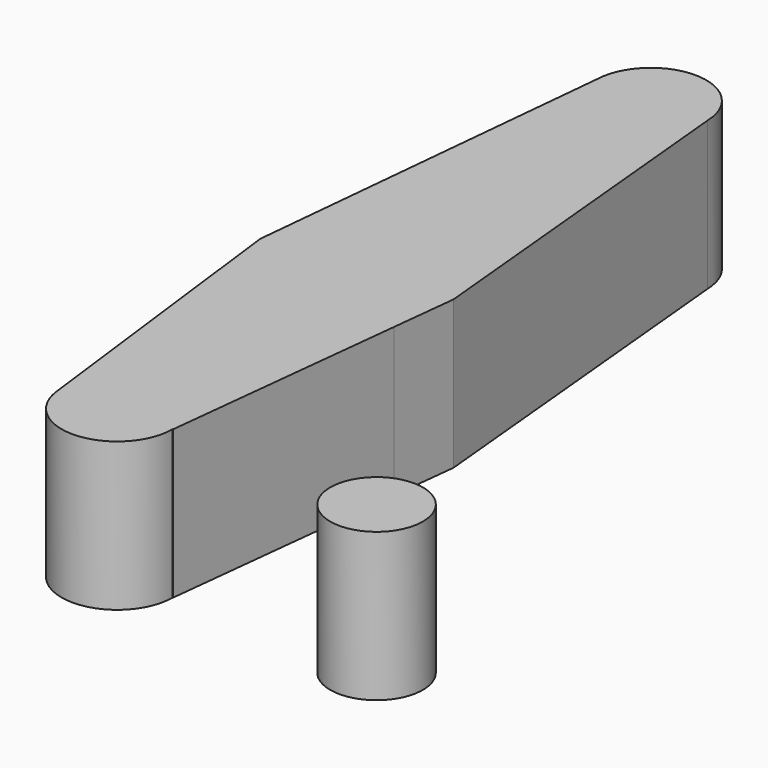
from build123d import *

# Parameters (mm, degrees)
F1_DEPTH = 25.4


with BuildPart() as f1:
    # F0 (on Top) → F1 (new body)
    with BuildSketch(Plane.XY):
        with BuildLine():
            ThreePointArc((9.525, 81.2639421549), (6.7351920908, 74.5287500641), (0, 71.7389421549))
            Line((0, 71.7389421549), (0, 31.6843353925))
            ThreePointArc((0, 31.6843353925), (9.7131531423, 28.3660181166), (15.3656670562, 19.7983078062))
            Line((15.3656670562, 19.7983078062), (9.5202281659, 81.565406365))
            ThreePointArc((9.5202281659, 81.565406365), (9.5238069667, 81.4146931419), (9.525, 81.2639421549))
        make_face()
        with BuildLine():
            Line((0, 31.6843353925), (0, 71.7389421549))
            ThreePointArc((0, 71.7389421549), (-6.8274747454, 74.6223148241), (-9.5213738308, 81.5267450733))
            Line((-9.5213738308, 81.5267450733), (-15.7995668357, 17.3550756048))
            ThreePointArc((-15.7995668357, 17.3550756048), (-10.6648253415, 27.568464843), (0, 31.6843353925))
        make_face()
        with BuildLine():
            Line((0, -23.5110578451), (0, -0.0656646075))
            ThreePointArc((0, -0.0656646075), (-9.1483416691, 2.8353818814), (-14.9530909628, 10.4782289728))
            Line((-14.9530909628, 10.4782289728), (-9.4536515863, -34.1997144463))
            ThreePointArc((-9.4536515863, -34.1997144463), (-7.1347548706, -26.7256776714), (0, -23.5110578451))
        make_face()
        with BuildLine():
            ThreePointArc((14.1387534307, 8.590521333), (8.2890576004, 2.2702383363), (0, -0.0656646075))
            Line((0, -0.0656646075), (0, -23.5110578451))
            ThreePointArc((0, -23.5110578451), (6.7351920908, -26.3008657543), (9.525, -33.0360578451))
            Line((9.525, -33.0360578451), (9.581902058, -33.0360578451))
            Line((9.581902058, -33.0360578451), (14.1387534307, 8.590521333))
        make_face()
        with BuildLine():
            Line((0, -33.0360578451), (0, -23.5110578451))
            ThreePointArc((0, -23.5110578451), (-7.1347548706, -26.7256776714), (-9.4536515863, -34.1997144463))
            ThreePointArc((-9.4536515863, -34.1997144463), (0.5829209384, -42.5432040089), (9.525, -33.0360578451))
            Line((9.525, -33.0360578451), (0, -33.0360578451))
        make_face()
        with BuildLine():
            ThreePointArc((9.525, -33.0360578451), (6.7351920908, -26.3008657543), (0, -23.5110578451))
            Line((0, -23.5110578451), (0, -33.0360578451))
            Line((0, -33.0360578451), (9.525, -33.0360578451))
        make_face()
        with BuildLine():
            ThreePointArc((-9.5213738308, 81.5267450733), (-6.8274747454, 74.6223148241), (0, 71.7389421549))
            ThreePointArc((0, 71.7389421549), (6.7351920908, 74.5287500641), (9.525, 81.2639421549))
            ThreePointArc((9.525, 81.2639421549), (9.5238069667, 81.4146931419), (9.5202281659, 81.565406365))
            ThreePointArc((9.5202281659, 81.565406365), (-0.0193391315, 90.7889225222), (-9.5213738308, 81.5267450733))
        make_face()
        with BuildLine():
            ThreePointArc((15.3656670562, 19.7983078062), (9.7131531423, 28.3660181166), (0, 31.6843353925))
            Line((0, 31.6843353925), (0, -0.0656646075))
            ThreePointArc((0, -0.0656646075), (8.2890576004, 2.2702383363), (14.1387534307, 8.590521333))
            Line((14.1387534307, 8.590521333), (15.3656670562, 19.7983078062))
        make_face()
        with BuildLine():
            Line((0, -0.0656646075), (0, 31.6843353925))
            ThreePointArc((0, 31.6843353925), (-10.6648253415, 27.568464843), (-15.7995668357, 17.3550756048))
            Line((-15.7995668357, 17.3550756048), (-14.9530909628, 10.4782289728))
            ThreePointArc((-14.9530909628, 10.4782289728), (-9.1483416691, 2.8353818814), (0, -0.0656646075))
        make_face()
    extrude(amount=F1_DEPTH)


with BuildPart() as f1b:
    # F0 (on Top) → F1, piece 2 (new body)
    with BuildSketch(Plane.XY):
        with BuildLine():
            ThreePointArc((52.3875, -33.0360578451), (44.45, -25.0985578451), (36.5125, -33.0360578451))
            ThreePointArc((36.5125, -33.0360578451), (44.45, -40.9735578451), (52.3875, -33.0360578451))
        make_face()
    extrude(amount=F1_DEPTH)


solid = Compound([f1.part, f1b.part])
